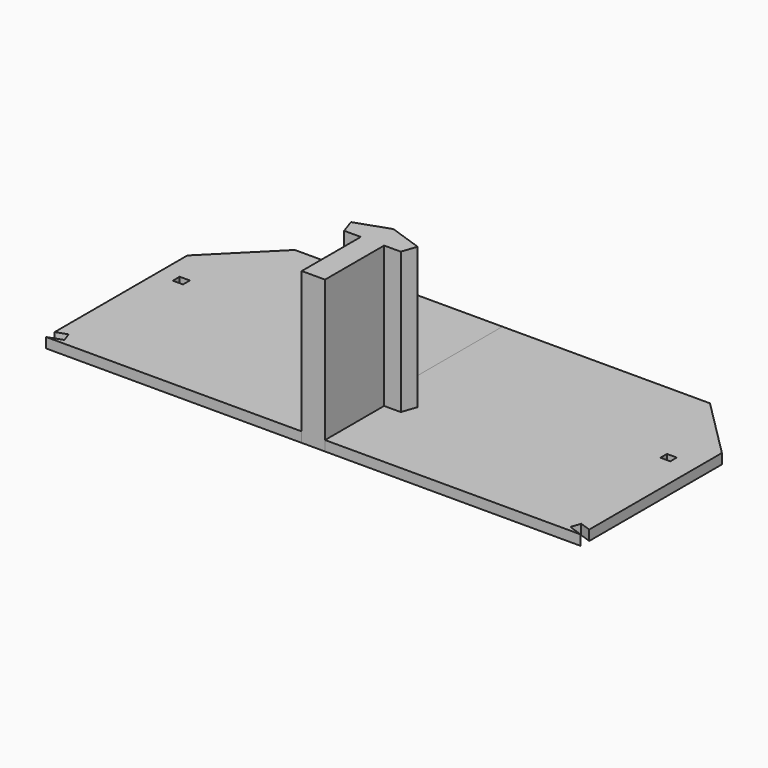
from build123d import *

# Parameters (mm, degrees)
F1_W      = 202.9504776001
F1_H      = 170.4788506031
F2_DEPTH  = 200
F1_W_2    = 194.8328018188
F1_H_2    = 162.3607575893
F3_DEPTH  = 200
F4_DEPTH  = 3000
F5_W      = 700
F5_H      = 700
F6_DEPTH  = 500
F7_DEPTH  = 1000
F8_DEPTH  = 1000
F5_W_2    = 661.8630029195
F5_H_2    = 172.10229188
F9_DEPTH  = 1000
F10_W     = 2400
F10_H     = 500
F11_DEPTH = 600
F12_W     = 2400
F12_H     = 500
F13_DEPTH = 600
F14_W     = 200
F14_H     = 700
F15_DEPTH = 500


with BuildPart() as f2:
    # F1 (on Top) → F2 (new body)
    with BuildSketch(Plane.XY):
        Polygon((0, 2342.5), (-4115, 2342.5), (-5300, 1157.5), (-5300, -2130.9758637627), (-5081.4580582116, -2055.725838543), (-5016.3444273202, -2244.8295536629), (-5300, -2342.5), (-230.9368750378, -2342.5), (-230.9368750378, -878.5084665558), (-560.9368750378, -878.5084665558), (-661.8630029195, -585.39770812), (0, -357.5), align=None)
        with Locations((-4846.1446762085, 442.8614228964)):
            Rectangle(F1_W, F1_H, mode=Mode.SUBTRACT)
    extrude(amount=F2_DEPTH)

    # F10 (on face) → F11 (cut)
    with BuildSketch(Plane.YZ.offset(700)):
        with Locations((442.5, 950)):
            Rectangle(F10_W, F10_H)
    extrude(amount=F11_DEPTH, mode=Mode.SUBTRACT)

    # F12 (on face) → F13 (cut)
    with BuildSketch(Plane(origin=(-700, 0, 0), x_dir=(0, -1, 0), z_dir=(-1, 0, 0))):
        with Locations((-442.5, 950)):
            Rectangle(F12_W, F12_H)
    extrude(amount=F13_DEPTH, mode=Mode.SUBTRACT)


with BuildPart() as f3:
    # F1 (on Top) → F3 (new body)
    with BuildSketch(Plane.XY):
        Polygon((4115, 2342.5), (0, 2342.5), (0, -357.5), (661.8630029195, -585.39770812), (560.9368750378, -878.5084665558), (230.9368750378, -878.5084665558), (230.9368750378, -2342.5), (5300, -2342.5), (5016.3444273202, -2244.8295536629), (5081.4580582116, -2055.725838543), (5300, -2130.9758637627), (5300, 1157.5), align=None)
        with Locations((4753.4341812134, 519.9827700853)):
            Rectangle(F1_W_2, F1_H_2, mode=Mode.SUBTRACT)
    extrude(amount=F3_DEPTH)


with BuildPart() as f4:
    # F1 (on Top) → F4 (new body)
    with BuildSketch(Plane.XY):
        Polygon((661.8630029195, -585.39770812), (0, -357.5), (-661.8630029195, -585.39770812), (-560.9368750378, -878.5084665558), (-230.9368750378, -878.5084665558), (-230.9368750378, -2342.5), (230.9368750378, -2342.5), (230.9368750378, -878.5084665558), (560.9368750378, -878.5084665558), align=None)
    extrude(amount=F4_DEPTH)


with BuildPart() as f6:
    # F5 (on face) → F6 (new body)
    with BuildSketch(Plane.XY.offset(200)):
        with Locations((-350, 1992.5)):
            Rectangle(F5_W, F5_H)
        with Locations((350, 1992.5)):
            Rectangle(F5_W, F5_H)
    extrude(amount=F6_DEPTH)


with BuildPart() as f7:
    # F5 (on face) → F7 (new body)
    with BuildSketch(Plane.XY.offset(200)):
        Polygon((700, 1642.5), (0, 1642.5), (0, -357.5), (661.8630029195, -585.39770812), (661.8630029195, -757.5), (700, -757.5), align=None)
    extrude(amount=F7_DEPTH)


with BuildPart() as f8:
    # F5 (on face) → F8 (new body)
    with BuildSketch(Plane.XY.offset(200)):
        Polygon((0, 1642.5), (-700, 1642.5), (-700, -757.5), (-661.8630029195, -757.5), (-661.8630029195, -585.39770812), (0, -357.5), align=None)
    extrude(amount=F8_DEPTH)


with BuildPart() as f9:
    # F5 (on face) → F9 (new body)
    with BuildSketch(Plane.XY.offset(200)):
        with Locations((330.9315014598, -671.44885406)):
            Rectangle(F5_W_2, F5_H_2)
    extrude(amount=F9_DEPTH)


with BuildPart() as f9b:
    # F5 (on face) → F9, piece 2 (new body)
    with BuildSketch(Plane.XY.offset(200)):
        Polygon((-661.8630029195, -585.39770812), (-661.8630029195, -757.5), (-602.6034315148, -757.5), align=None)
    extrude(amount=F9_DEPTH)


with BuildPart() as f15:
    # F14 (on face) → F15 (new body, through all)
    with BuildSketch(Plane.XY.offset(700)):
        with Locations((0, 1992.5)):
            Rectangle(F14_W, F14_H)
    extrude(amount=F15_DEPTH)


solid = Compound([f2.part, f3.part, f4.part])
